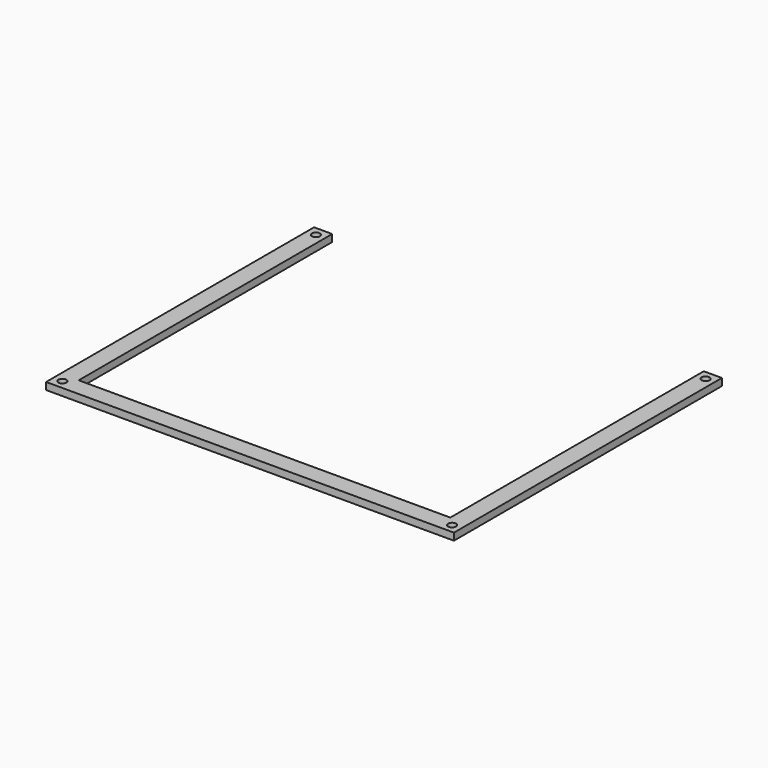
from build123d import *

# Parameters (mm, degrees)
F0_R     = 2.794
F0_W     = 260.35
F0_H     = 12.7
F1_DEPTH = 5


with BuildPart() as f1:
    # F0 (on Top) → F1 (new body)
    with BuildSketch(Plane.XY):
        Polygon((6.35, 117.350032), (-6.35, 117.350032), (-6.35, -117.350032), (6.35, -117.350032), (6.35, -104.650032), align=None)
        with Locations((0, -111.000032)):
            Circle(F0_R, mode=Mode.SUBTRACT)
        with Locations((0, 111.000032)):
            Circle(F0_R, mode=Mode.SUBTRACT)
        Polygon((266.7, 117.350032), (266.7, -104.650032), (266.7, -117.350032), (279.4, -117.350032), (279.4, 117.350032), align=None)
        with Locations((273.05, -111.000032)):
            Circle(F0_R, mode=Mode.SUBTRACT)
        with Locations((273.05, 111.000032)):
            Circle(F0_R, mode=Mode.SUBTRACT)
        with Locations((136.525, -111.000032)):
            Rectangle(F0_W, F0_H)
    extrude(amount=F1_DEPTH)


solid = f1.part
